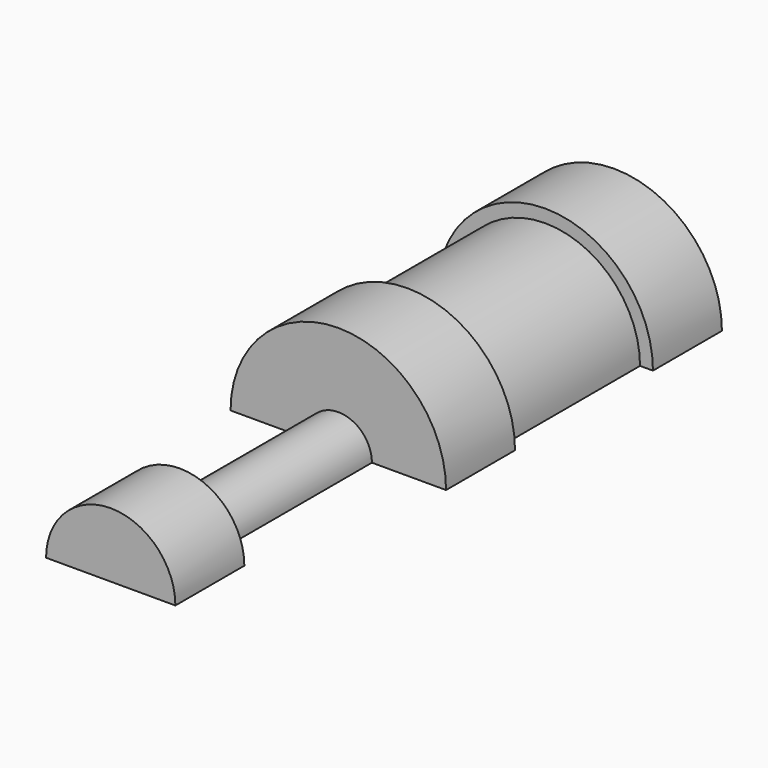
from build123d import *

# Parameters (mm, degrees)
F1_ANGLE = 180


with BuildPart() as f1:
    # F0 (on Right) → F1 (revolve, symmetric)
    with BuildSketch(Plane.YZ) as f1_sk:
        Polygon((-18.542, 0), (0, 0), (0, 3.175), (-2.54, 3.175), (-2.54, 2.794), (-7.62, 2.794), (-7.62, 3.175), (-10.16, 3.175), (-10.16, 0.990308), (-16.002, 0.990308), (-16.002, 1.905), (-18.542, 1.905), align=None)
    revolve(axis=Axis((0, -9.271, 0), (0, -1, 0)), revolution_arc=F1_ANGLE / 2)
    revolve(f1_sk.sketch, axis=Axis((0, -9.271, 0), (0, 1, 0)), revolution_arc=F1_ANGLE / 2)


solid = f1.part
